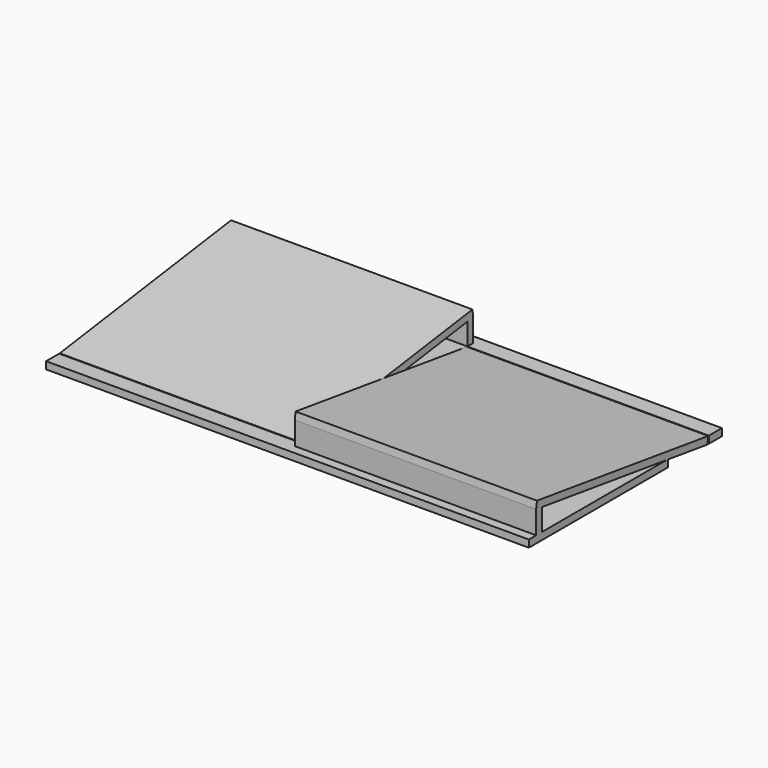
from build123d import *

# Parameters (mm, degrees)
F1_DEPTH = 18.25625
F3_DEPTH = 609.6
F4_DEPTH = 609.6


with BuildPart() as f1:
    # F0 (on Top) → F1 (new body)
    with BuildSketch(Plane.XY):
        Polygon((609.6, 263.398), (609.6, 304.8), (-609.6, 304.8), (-609.6, -134.874), (0, -134.874), (0, -263.398), (-609.6, -263.398), (-609.6, -304.8), (609.6, -304.8), (609.6, 134.874), (0, 134.874), (0, 263.398), align=None)
    extrude(amount=-F1_DEPTH)

    # F2 (on Right) → F3 (join, through all)
    with BuildSketch(Plane.YZ):
        Polygon((65.5882849274, 27.5459089179), (263.398, 55.3462513865), (281.65425, 57.912), (279.1134710756, 75.99058143), (0, 36.7637412283), align=None)
        Polygon((263.398, 55.3462513865), (263.398, 0), (281.65425, 0), (281.65425, 57.912), align=None)
        Polygon((0, 18.3280766075), (65.5882849274, 27.5459089179), (0, 36.7637412283), (-65.5882849274, 27.5459089179), align=None)
        Polygon((-259.0468322931, -18.07858143), (0, 18.3280766075), (-65.5882849274, 27.5459089179), (-261.5876112175, 0), align=None)
    extrude(amount=-F3_DEPTH)

    # F2 (on Right) → F4 (join, through all)
    with BuildSketch(Plane.YZ):
        Polygon((-263.398, 0), (-263.398, 55.3462513865), (-281.65425, 57.912), (-281.65425, 0), align=None)
        Polygon((-65.5882849274, 27.5459089179), (0, 36.7637412283), (-279.1134710756, 75.99058143), (-281.65425, 57.912), (-263.398, 55.3462513865), align=None)
        Polygon((0, 18.3280766075), (65.5882849274, 27.5459089179), (0, 36.7637412283), (-65.5882849274, 27.5459089179), align=None)
        Polygon((261.5876112175, 0), (65.5882849274, 27.5459089179), (0, 18.3280766075), (259.0468322931, -18.07858143), align=None)
    extrude(amount=F4_DEPTH)


solid = f1.part
